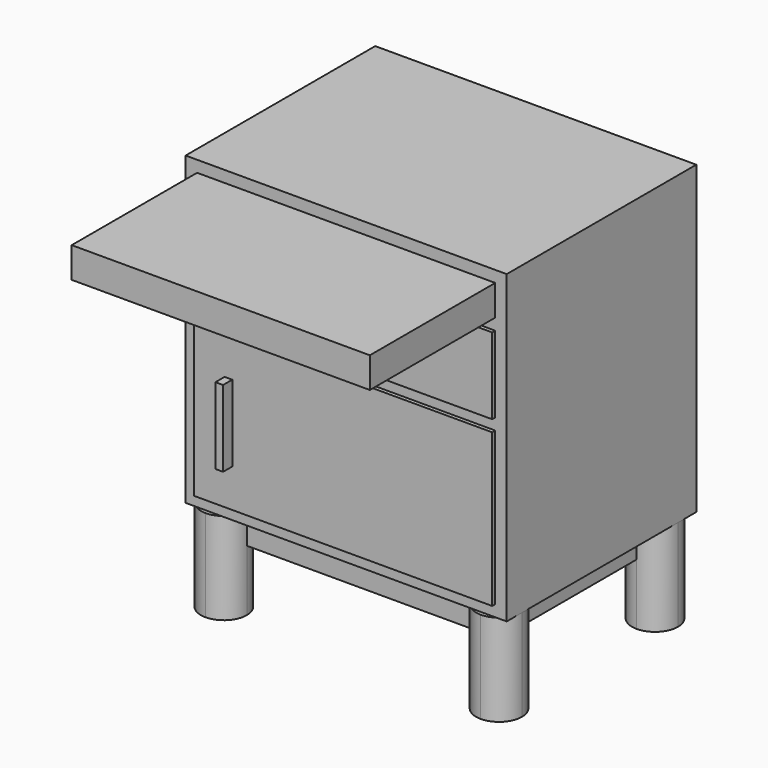
from build123d import *

# Parameters (mm, degrees)
F1_DEPTH = 50.8
F2_DEPTH = 152.4
F3_DEPTH = 508
F4_W     = 495.3
F4_H     = 254
F4_W_2   = 190.5
F4_H_2   = 127
F4_W_3   = 285.75
F4_H_3   = 50.8
F5_DEPTH = 6.35
F6_DEPTH = 254
F4_W_4   = 12.7
F4_R     = 12.7
F7_DEPTH = 19.05


with BuildPart() as f1:
    # F0 (on Top) → F1 (new body)
    with BuildSketch(Plane.XY):
        with BuildLine():
            ThreePointArc((228.6, 123.825), (201.6592316368, 134.9842316368), (190.5, 161.925))
            Line((190.5, 161.925), (-190.5, 161.925))
            ThreePointArc((-190.5, 161.925), (-201.6592316368, 134.9842316368), (-228.6, 123.825))
            Line((-228.6, 123.825), (-228.6, -123.825))
            ThreePointArc((-228.6, -123.825), (-201.6592316368, -134.9842316368), (-190.5, -161.925))
            Line((-190.5, -161.925), (190.5, -161.925))
            ThreePointArc((190.5, -161.925), (201.6592316368, -134.9842316368), (228.6, -123.825))
            Line((228.6, -123.825), (228.6, 123.825))
        make_face()
        with BuildLine():
            ThreePointArc((-228.6, 123.825), (-201.6592316368, 134.9842316368), (-190.5, 161.925))
            Line((-190.5, 161.925), (-228.6, 161.925))
            Line((-228.6, 161.925), (-228.6, 123.825))
        make_face()
        with BuildLine():
            ThreePointArc((-190.5, -161.925), (-201.6592316368, -134.9842316368), (-228.6, -123.825))
            Line((-228.6, -123.825), (-228.6, -161.925))
            Line((-228.6, -161.925), (-190.5, -161.925))
        make_face()
        with BuildLine():
            Line((228.6, -161.925), (228.6, -123.825))
            ThreePointArc((228.6, -123.825), (201.6592316368, -134.9842316368), (190.5, -161.925))
            Line((190.5, -161.925), (228.6, -161.925))
        make_face()
        with BuildLine():
            Line((228.6, 161.925), (190.5, 161.925))
            ThreePointArc((190.5, 161.925), (201.6592316368, 134.9842316368), (228.6, 123.825))
            Line((228.6, 123.825), (228.6, 161.925))
        make_face()
    extrude(amount=-F1_DEPTH)

    # F0 (on Top) → F2 (join)
    with BuildSketch(Plane.XY):
        with BuildLine():
            ThreePointArc((-228.6, -123.825), (-255.5407683632, -134.9842316368), (-266.7, -161.925))
            ThreePointArc((-266.7, -161.925), (-255.540768159, -188.8657685674), (-228.5999994224, -200.025))
            ThreePointArc((-228.5999994224, -200.025), (-201.6592314326, -188.865768159), (-190.5, -161.925))
            Line((-190.5, -161.925), (-228.6, -161.925))
            Line((-228.6, -161.925), (-228.6, -123.825))
        make_face()
        with BuildLine():
            ThreePointArc((-190.5, -161.925), (-201.6592316368, -134.9842316368), (-228.6, -123.825))
            Line((-228.6, -123.825), (-228.6, -161.925))
            Line((-228.6, -161.925), (-190.5, -161.925))
        make_face()
        with BuildLine():
            ThreePointArc((-228.6, 123.825), (-201.6592316368, 134.9842316368), (-190.5, 161.925))
            Line((-190.5, 161.925), (-228.6, 161.925))
            Line((-228.6, 161.925), (-228.6, 123.825))
        make_face()
        with BuildLine():
            ThreePointArc((-190.5, 161.925), (-201.6592316368, 188.8657683632), (-228.6, 200.025))
            ThreePointArc((-228.6, 200.025), (-255.5407683632, 188.8657683632), (-266.7, 161.925))
            ThreePointArc((-266.7, 161.925), (-255.5407683632, 134.9842316368), (-228.6, 123.825))
            Line((-228.6, 123.825), (-228.6, 161.925))
            Line((-228.6, 161.925), (-190.5, 161.925))
        make_face()
        with BuildLine():
            Line((228.6, 161.925), (190.5, 161.925))
            ThreePointArc((190.5, 161.925), (201.6592316368, 134.9842316368), (228.6, 123.825))
            Line((228.6, 123.825), (228.6, 161.925))
        make_face()
        with BuildLine():
            ThreePointArc((266.7, 161.925), (255.5407683632, 188.8657683632), (228.6, 200.025))
            ThreePointArc((228.6, 200.025), (201.6592316368, 188.8657683632), (190.5, 161.925))
            Line((190.5, 161.925), (228.6, 161.925))
            Line((228.6, 161.925), (228.6, 123.825))
            ThreePointArc((228.6, 123.825), (255.5407683632, 134.9842316368), (266.7, 161.925))
        make_face()
        with BuildLine():
            Line((228.6, -161.925), (228.6, -123.825))
            ThreePointArc((228.6, -123.825), (201.6592316368, -134.9842316368), (190.5, -161.925))
            Line((190.5, -161.925), (228.6, -161.925))
        make_face()
        with BuildLine():
            ThreePointArc((228.6, -200.025), (255.5407683632, -188.8657683632), (266.7, -161.925))
            ThreePointArc((266.7, -161.925), (255.5407683632, -134.9842316368), (228.6, -123.825))
            Line((228.6, -123.825), (228.6, -161.925))
            Line((228.6, -161.925), (190.5, -161.925))
            ThreePointArc((190.5, -161.925), (201.6592316368, -188.8657683632), (228.6, -200.025))
        make_face()
    extrude(amount=-F2_DEPTH)

    # F0 (on Top) → F3 (join)
    with BuildSketch(Plane.XY):
        with BuildLine():
            ThreePointArc((-228.6, 123.825), (-255.5407683632, 134.9842316368), (-266.7, 161.925))
            Line((-266.7, 161.925), (-266.7, -161.925))
            ThreePointArc((-266.7, -161.925), (-255.5407683632, -134.9842316368), (-228.6, -123.825))
            Line((-228.6, -123.825), (-228.6, 123.825))
        make_face()
        with BuildLine():
            ThreePointArc((-266.7, 161.925), (-255.5407683632, 188.8657683632), (-228.6, 200.025))
            Line((-228.6, 200.025), (-266.7, 200.025))
            Line((-266.7, 200.025), (-266.7, 161.925))
        make_face()
        with BuildLine():
            ThreePointArc((-190.5, 161.925), (-201.6592316368, 188.8657683632), (-228.6, 200.025))
            ThreePointArc((-228.6, 200.025), (-255.5407683632, 188.8657683632), (-266.7, 161.925))
            ThreePointArc((-266.7, 161.925), (-255.5407683632, 134.9842316368), (-228.6, 123.825))
            Line((-228.6, 123.825), (-228.6, 161.925))
            Line((-228.6, 161.925), (-190.5, 161.925))
        make_face()
        with BuildLine():
            ThreePointArc((-228.6, 123.825), (-201.6592316368, 134.9842316368), (-190.5, 161.925))
            Line((-190.5, 161.925), (-228.6, 161.925))
            Line((-228.6, 161.925), (-228.6, 123.825))
        make_face()
        with BuildLine():
            ThreePointArc((228.6, 123.825), (201.6592316368, 134.9842316368), (190.5, 161.925))
            Line((190.5, 161.925), (-190.5, 161.925))
            ThreePointArc((-190.5, 161.925), (-201.6592316368, 134.9842316368), (-228.6, 123.825))
            Line((-228.6, 123.825), (-228.6, -123.825))
            ThreePointArc((-228.6, -123.825), (-201.6592316368, -134.9842316368), (-190.5, -161.925))
            Line((-190.5, -161.925), (190.5, -161.925))
            ThreePointArc((190.5, -161.925), (201.6592316368, -134.9842316368), (228.6, -123.825))
            Line((228.6, -123.825), (228.6, 123.825))
        make_face()
        with BuildLine():
            ThreePointArc((-190.5, -161.925), (-201.6592316368, -134.9842316368), (-228.6, -123.825))
            Line((-228.6, -123.825), (-228.6, -161.925))
            Line((-228.6, -161.925), (-190.5, -161.925))
        make_face()
        with BuildLine():
            ThreePointArc((-228.6, -123.825), (-255.5407683632, -134.9842316368), (-266.7, -161.925))
            ThreePointArc((-266.7, -161.925), (-255.540768159, -188.8657685674), (-228.5999994224, -200.025))
            ThreePointArc((-228.5999994224, -200.025), (-201.6592314326, -188.865768159), (-190.5, -161.925))
            Line((-190.5, -161.925), (-228.6, -161.925))
            Line((-228.6, -161.925), (-228.6, -123.825))
        make_face()
        with BuildLine():
            ThreePointArc((-228.5999994224, -200.025), (-255.540768159, -188.8657685674), (-266.7, -161.925))
            Line((-266.7, -161.925), (-266.7, -200.025))
            Line((-266.7, -200.025), (-228.5999994224, -200.025))
        make_face()
        with BuildLine():
            Line((-228.5999994224, -200.025), (228.6, -200.025))
            ThreePointArc((228.6, -200.025), (201.6592316368, -188.8657683632), (190.5, -161.925))
            Line((190.5, -161.925), (-190.5, -161.925))
            ThreePointArc((-190.5, -161.925), (-201.6592314326, -188.865768159), (-228.5999994224, -200.025))
        make_face()
        with BuildLine():
            ThreePointArc((228.6, -200.025), (255.5407683632, -188.8657683632), (266.7, -161.925))
            ThreePointArc((266.7, -161.925), (255.5407683632, -134.9842316368), (228.6, -123.825))
            Line((228.6, -123.825), (228.6, -161.925))
            Line((228.6, -161.925), (190.5, -161.925))
            ThreePointArc((190.5, -161.925), (201.6592316368, -188.8657683632), (228.6, -200.025))
        make_face()
        with BuildLine():
            Line((266.7, -200.025), (266.7, -161.925))
            ThreePointArc((266.7, -161.925), (255.5407683632, -188.8657683632), (228.6, -200.025))
            Line((228.6, -200.025), (266.7, -200.025))
        make_face()
        with BuildLine():
            Line((228.6, -161.925), (228.6, -123.825))
            ThreePointArc((228.6, -123.825), (201.6592316368, -134.9842316368), (190.5, -161.925))
            Line((190.5, -161.925), (228.6, -161.925))
        make_face()
        with BuildLine():
            Line((266.7, -161.925), (266.7, 161.925))
            ThreePointArc((266.7, 161.925), (255.5407683632, 134.9842316368), (228.6, 123.825))
            Line((228.6, 123.825), (228.6, -123.825))
            ThreePointArc((228.6, -123.825), (255.5407683632, -134.9842316368), (266.7, -161.925))
        make_face()
        with BuildLine():
            ThreePointArc((190.5, 161.925), (201.6592316368, 188.8657683632), (228.6, 200.025))
            Line((228.6, 200.025), (-228.6, 200.025))
            ThreePointArc((-228.6, 200.025), (-201.6592316368, 188.8657683632), (-190.5, 161.925))
            Line((-190.5, 161.925), (190.5, 161.925))
        make_face()
        with BuildLine():
            Line((266.7, 161.925), (266.7, 200.025))
            Line((266.7, 200.025), (228.6, 200.025))
            ThreePointArc((228.6, 200.025), (255.5407683632, 188.8657683632), (266.7, 161.925))
        make_face()
        with BuildLine():
            ThreePointArc((266.7, 161.925), (255.5407683632, 188.8657683632), (228.6, 200.025))
            ThreePointArc((228.6, 200.025), (201.6592316368, 188.8657683632), (190.5, 161.925))
            Line((190.5, 161.925), (228.6, 161.925))
            Line((228.6, 161.925), (228.6, 123.825))
            ThreePointArc((228.6, 123.825), (255.5407683632, 134.9842316368), (266.7, 161.925))
        make_face()
        with BuildLine():
            Line((228.6, 161.925), (190.5, 161.925))
            ThreePointArc((190.5, 161.925), (201.6592316368, 134.9842316368), (228.6, 123.825))
            Line((228.6, 123.825), (228.6, 161.925))
        make_face()
    extrude(amount=F3_DEPTH)

    # F4 (on face) → F5 (cut)
    with BuildSketch(Plane.XZ.offset(200.025)):
        Polygon((266.7, 508), (-266.7, 508), (-266.7, 0), (-228.6, 0), (228.6, 0), (266.7, 0), align=None)
        with Locations((0, 146.05)):
            Rectangle(F4_W, F4_H, mode=Mode.SUBTRACT)
        with Locations((-152.4, 355.6)):
            Rectangle(F4_W_2, F4_H_2, mode=Mode.SUBTRACT)
        with Locations((104.775, 355.6)):
            Rectangle(F4_W_3, F4_H_2, mode=Mode.SUBTRACT)
        with Locations((0, 463.55)):
            Rectangle(F4_W, F4_H_3, mode=Mode.SUBTRACT)
    extrude(amount=-F5_DEPTH, mode=Mode.SUBTRACT)

    # F4 (on face) → F6 (join)
    with BuildSketch(Plane.XZ.offset(200.025)):
        with Locations((0, 463.55)):
            Rectangle(F4_W, F4_H_3)
    extrude(amount=F6_DEPTH)

    # F4 (on face) → F7 (join)
    with BuildSketch(Plane.XZ.offset(200.025)):
        with Locations((-190.5, 146.05)):
            Rectangle(F4_W_4, F4_H_2)
        with Locations((-107.95, 355.6)):
            Circle(F4_R)
        with Locations((12.7, 355.6)):
            Circle(F4_R)
    extrude(amount=F7_DEPTH)


solid = f1.part
